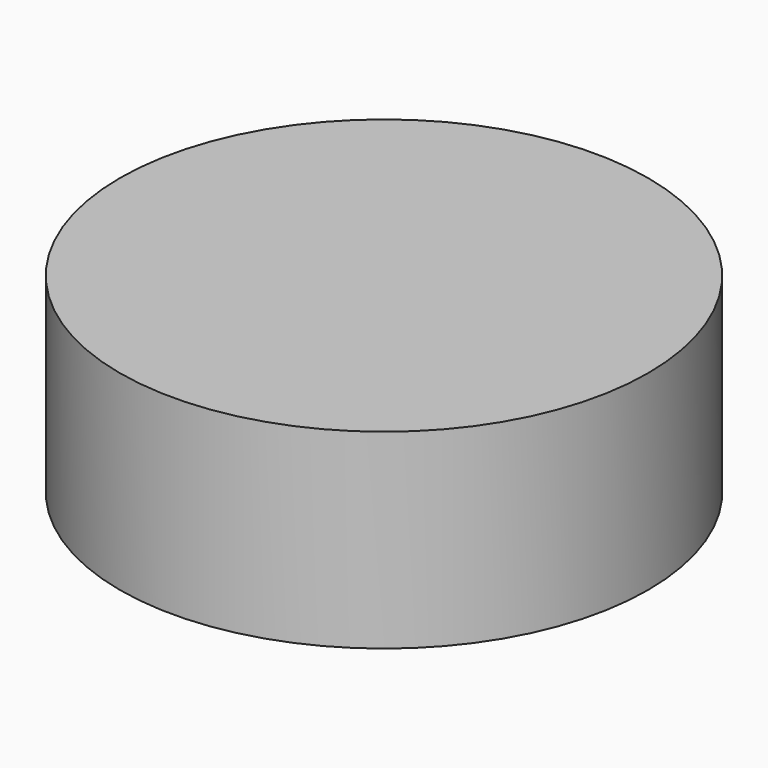
from build123d import *

# Parameters (mm, degrees)
CYLINDER_R     = 20.7518
CYLINDER_DEPTH = 15


with BuildPart() as part:
    # Cylinder → Cylinder (new body)
    with BuildSketch(Plane.XY.offset(-2.5)):
        Circle(CYLINDER_R)
    extrude(amount=CYLINDER_DEPTH)


solid = part.part
